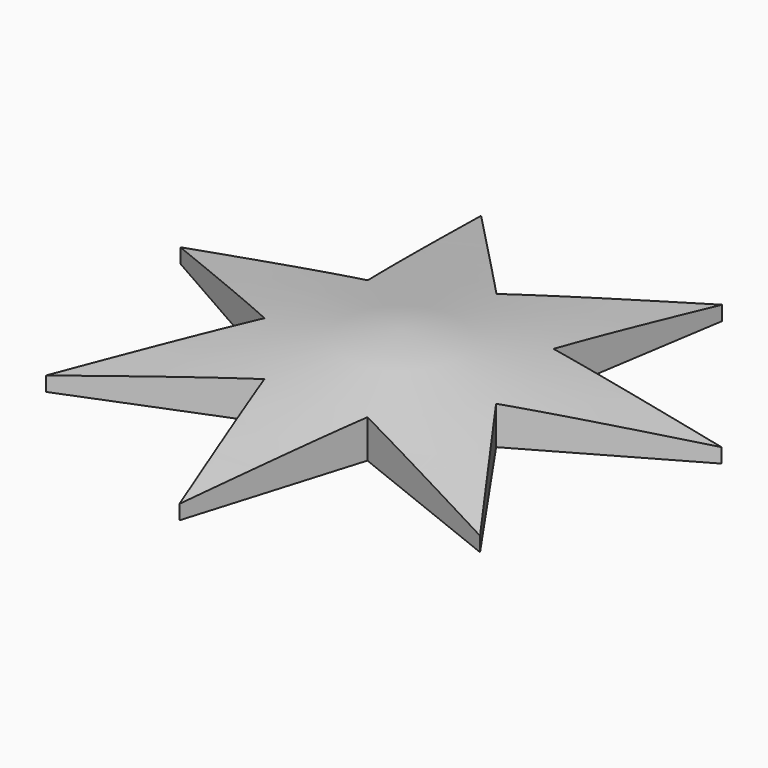
from build123d import *

# Parameters (mm, degrees)
PAD_DEPTH = 15


with BuildPart() as part:
    # Sketch → Pad (new body)
    with BuildSketch(Plane.XY):
        Polygon((0, 30), (30.417592, 63.162781), (23.454944, 18.704694), (68.34771, 15.599919), (29.247837, -6.675628), (54.810608, -43.710001), (13.016512, -27.029066), (0, -70.105398), (-13.016512, -27.029066), (-54.810608, -43.710001), (-29.247837, -6.675628), (-68.34771, 15.599919), (-23.454944, 18.704694), (-30.417592, 63.162781), align=None)
    extrude(amount=PAD_DEPTH)

    # Sketch001 → Groove (revolve, cut)
    with BuildSketch(Plane.XZ):
        Polygon((0, 90.473419), (0, 14.138247), (80.88575, 2.052736), (80.88575, 90.473419), align=None)
    revolve(axis=Axis((0, 0, 0), (0, 0, 1)), mode=Mode.SUBTRACT)


solid = part.part
